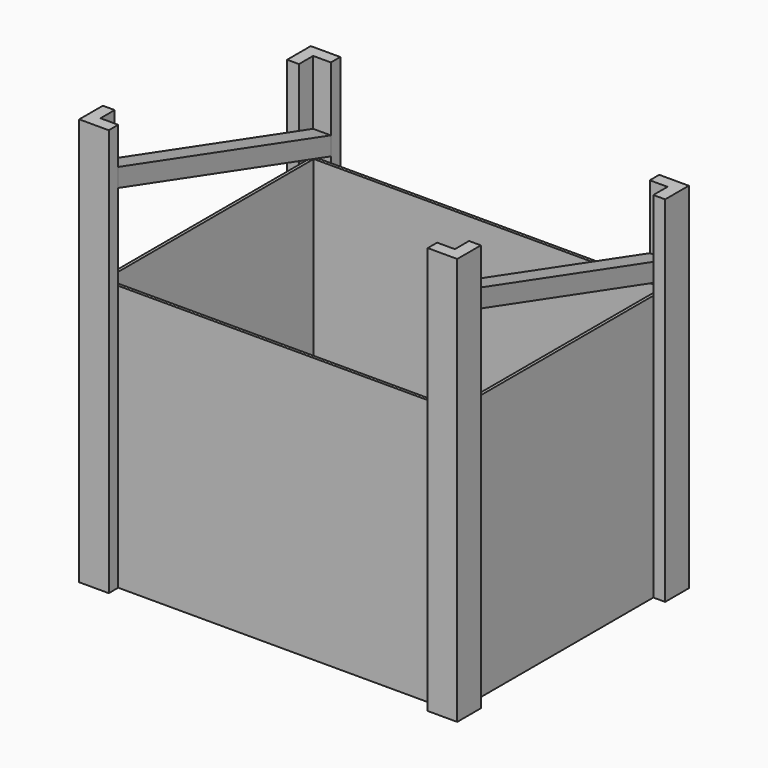
from build123d import *

# Parameters (mm, degrees)
F0_W      = 600
F0_H      = 450
F1_DEPTH  = 450
F2_T      = -5
F4_DEPTH  = 690
F6_ANGLE  = -90
F8_DEPTH  = 600
F10_ANGLE = -90
F12_DEPTH = 30


with BuildPart() as f1:
    # F0 (on Top) → F1 (new body)
    with BuildSketch(Plane.XY):
        Rectangle(F0_W, F0_H)
    extrude(amount=F1_DEPTH)

    # F2
    f2_openings = [f1.faces().sort_by_distance(p)[0] for p in [
        (0, 0, 450),
    ]]
    offset(amount=F2_T, openings=f2_openings)


with BuildPart() as f4:
    # F3 (on face) → F4 (new body)
    with BuildSketch(Plane(origin=(0, 0, 0), x_dir=(1, 0, 0), z_dir=(0, 0, -1))):
        Polygon((-320, 195), (-300, 195), (-300, 225), (-270, 225), (-270, 245), (-320, 245), align=None)
    extrude(amount=-F4_DEPTH)


with BuildPart() as f5_1:
    # F5: copy of F4
    add(f4.part.moved(Location((600, 0, 0))))


with BuildPart() as f5_1_1:
    # F6: moved
    add(f5_1.part.rotate(Axis((300, -225, 225), (0, 0, -1)), F6_ANGLE))


with BuildPart() as f8:
    # F7 (on face) → F8 (new body)
    with BuildSketch(Plane(origin=(0, 0, 0), x_dir=(1, 0, 0), z_dir=(0, 0, -1))):
        Polygon((320, -195), (300, -195), (300, -225), (270, -225), (270, -245), (320, -245), align=None)
    extrude(amount=-F8_DEPTH)


with BuildPart() as f9_1:
    # F9: copy of F8
    add(f8.part.moved(Location((-600, 0, 0))))


with BuildPart() as f9_1_1:
    # F10: moved
    add(f9_1.part.rotate(Axis((-300, 225, 225), (0, 0, -1)), F10_ANGLE))


with BuildPart() as f12:
    # F11 (on face) → F12 (new body)
    with BuildSketch(Plane(origin=(-300, 0, 0), x_dir=(0, -1, 0), z_dir=(-1, 0, 0))):
        Polygon((-225, 491.3375002571), (-225, 460), (225, 595.8630101657), (225, 627.2005104228), align=None)
    extrude(amount=-F12_DEPTH)


with BuildPart() as f13_1:
    # F13: copy of F12
    add(f12.part.moved(Location((570, 0, 0))))


solid = Compound([f1.part, f4.part, f5_1_1.part, f8.part, f9_1_1.part, f12.part, f13_1.part])
